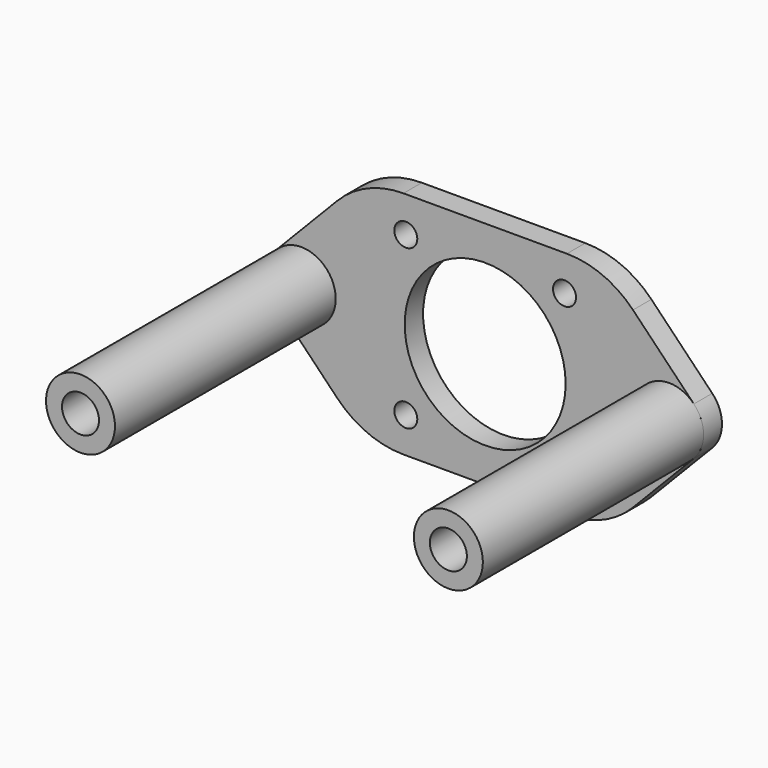
from build123d import *

# Parameters (mm, degrees)
F0_R     = 1.5875
F0_R_2   = 2.5527
F0_R_3   = 11.1125
F1_DEPTH = 3.175
F2_R     = 4.7625
F2_R_2   = 2.5527
F3_DEPTH = 38.1


with BuildPart() as f1:
    # F0 (on Front) → F1 (new body)
    with BuildSketch(Plane.XZ):
        with BuildLine():
            Line((-20.41235, 12.005275), (-28.822915, 3.311353))
            ThreePointArc((-28.822915, 3.311353), (-30.1625, 0), (-28.822915, -3.311353))
            Line((-28.822915, -3.311353), (-20.41235, -12.005275))
            ThreePointArc((-20.41235, -12.005275), (-16.241669, -14.867615), (-11.284577, -15.875))
            Line((-11.284577, -15.875), (11.284577, -15.875))
            ThreePointArc((11.284577, -15.875), (16.241669, -14.867615), (20.41235, -12.005275))
            Line((20.41235, -12.005275), (28.822915, -3.311353))
            ThreePointArc((28.822915, -3.311353), (30.1625, 0), (28.822915, 3.311353))
            Line((28.822915, 3.311353), (20.41235, 12.005275))
            ThreePointArc((20.41235, 12.005275), (16.241669, 14.867615), (11.284577, 15.875))
            Line((11.284577, 15.875), (-11.284577, 15.875))
            ThreePointArc((-11.284577, 15.875), (-16.241669, 14.867615), (-20.41235, 12.005275))
        make_face()
        with Locations((-10.9601, -10.9601)):
            Circle(F0_R, mode=Mode.SUBTRACT)
        with Locations((10.9601, -10.9601)):
            Circle(F0_R, mode=Mode.SUBTRACT)
        with Locations((-25.4, 0)):
            Circle(F0_R_2, mode=Mode.SUBTRACT)
        Circle(F0_R_3, mode=Mode.SUBTRACT)
        with Locations((-10.9601, 10.9601)):
            Circle(F0_R, mode=Mode.SUBTRACT)
        with Locations((25.4, 0)):
            Circle(F0_R_2, mode=Mode.SUBTRACT)
        with Locations((10.9601, 10.9601)):
            Circle(F0_R, mode=Mode.SUBTRACT)
    extrude(amount=F1_DEPTH)


with BuildPart() as f3:
    # F2 (on face) → F3 (new body)
    with BuildSketch(Plane.XZ.offset(3.175)):
        with Locations((-25.4, 0)):
            Circle(F2_R)
        with Locations((-25.4, 0)):
            Circle(F2_R_2, mode=Mode.SUBTRACT)
        with Locations((25.4, 0)):
            Circle(F2_R)
        with Locations((25.4, 0)):
            Circle(F2_R_2, mode=Mode.SUBTRACT)
    extrude(amount=F3_DEPTH)


solid = Compound([f1.part, f3.part])
